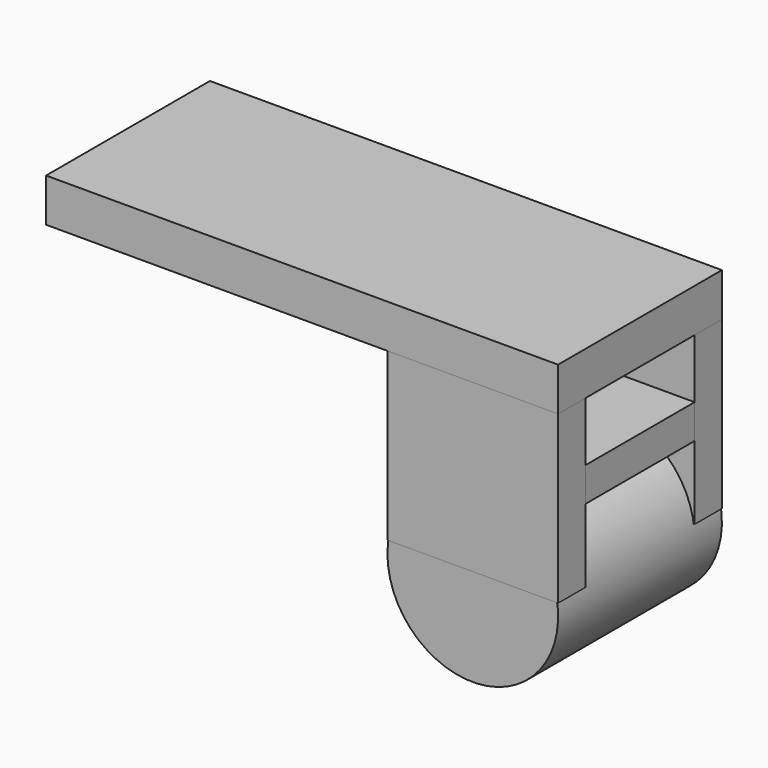
from build123d import *

# Parameters (mm, degrees)
F0_W      = 30
F0_H      = 2.540322
F1_DEPTH  = 12
F2_W      = 10
F2_H      = 8
F3_DEPTH  = 2
F4_W      = 10
F4_H      = 2
F5_DEPTH  = 8
F6_W      = 10
F6_H      = 8
F7_DEPTH  = 2
F8_R      = 5
F9_DEPTH  = 12
F10_W     = 10
F10_H     = 9.760997
F11_DEPTH = 2
F12_W     = 10
F12_H     = 9.760997
F13_DEPTH = 2


with BuildPart() as f1:
    # F0 (on Front) → F1 (new body)
    with BuildSketch(Plane.XZ):
        with Locations((-7.797013, 11.031158)):
            Rectangle(F0_W, F0_H)
    extrude(amount=F1_DEPTH)

    # F2 (on face) → F3 (join)
    with BuildSketch(Plane(origin=(0, 0, 0), x_dir=(-1, 0, 0), z_dir=(0, 1, 0))):
        with Locations((-2.202987, 8.301319)):
            Rectangle(F2_W, F2_H)
    extrude(amount=-F3_DEPTH)

    # F4 (on face) → F5 (join)
    with BuildSketch(Plane.XZ.offset(2)):
        with Locations((2.202987, 5.301319)):
            Rectangle(F4_W, F4_H)
    extrude(amount=F5_DEPTH)

    # F6 (on face) → F7 (join)
    with BuildSketch(Plane.XZ.offset(12)):
        with Locations((2.202987, 8.301319)):
            Rectangle(F6_W, F6_H)
    extrude(amount=-F7_DEPTH)

    # F8 (on face) → F9 (join)
    with BuildSketch(Plane(origin=(0, 0, 0), x_dir=(-1, 0, 0), z_dir=(0, 1, 0))):
        with Locations((-2.202987, -0.698681)):
            Circle(F8_R)
    extrude(amount=-F9_DEPTH)


with BuildPart() as f11:
    # F10 (on face) → F11 (new body)
    with BuildSketch(Plane.XZ.offset(12)):
        with Locations((2.202987, 4.880498)):
            Rectangle(F10_W, F10_H)
    extrude(amount=-F11_DEPTH)


with BuildPart() as f13:
    # F12 (on face) → F13 (new body)
    with BuildSketch(Plane(origin=(0, 0, 0), x_dir=(-1, 0, 0), z_dir=(0, 1, 0))):
        with Locations((-2.202987, 4.880498)):
            Rectangle(F12_W, F12_H)
    extrude(amount=-F13_DEPTH)


solid = Compound([f1.part, f11.part, f13.part])
